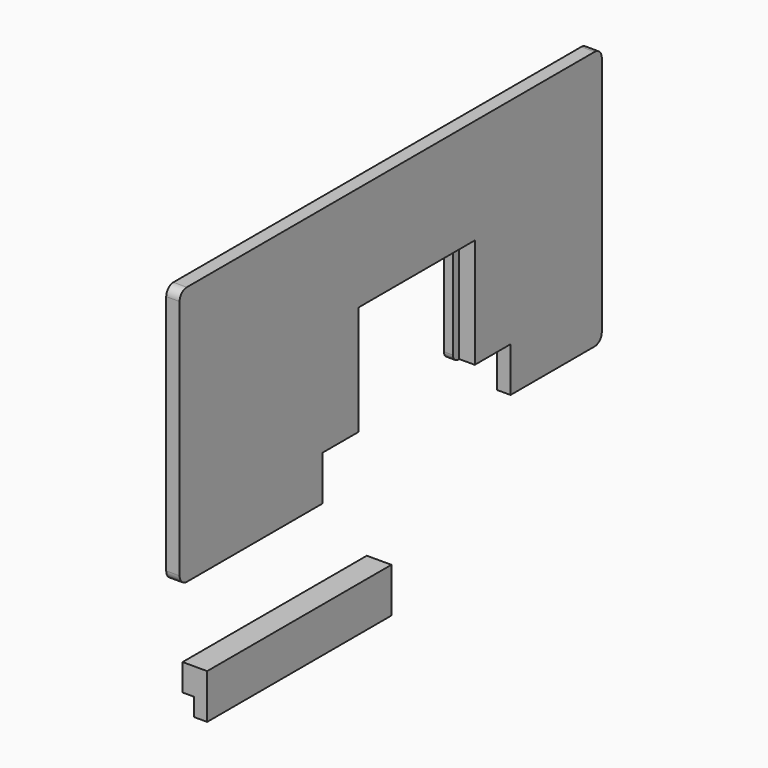
from build123d import *

# Parameters (mm, degrees)
F1_DEPTH = 3
F0_W     = 51.5
F0_H     = 10
F2_W     = 32.5
F2_H     = 24.5
F3_DEPTH = 3.5
F5_DEPTH = 2.5
F6_DEPTH = 0.5
F7_W     = 51.5
F7_H     = 6
F8_DEPTH = 2.5
F9_R     = 1.5


with BuildPart() as f1:
    # F0 (on Right) → F1 (new body)
    with BuildSketch(Plane.YZ):
        with BuildLine():
            Line((56.8031638018, 28.9837977201), (-57.1968361982, 28.9837977201))
            ThreePointArc((-57.1968361982, 28.9837977201), (-58.6110497606, 28.3980112824), (-59.1968361982, 26.9837977201))
            Line((-59.1968361982, 26.9837977201), (-59.1968361982, -27.0162022799))
            ThreePointArc((-59.1968361982, -27.0162022799), (-58.6110497606, -28.4304158423), (-57.1968361982, -29.0162022799))
            Line((-57.1968361982, -29.0162022799), (56.8031638018, -29.0162022799))
            ThreePointArc((56.8031638018, -29.0162022799), (58.2173773641, -28.4304158423), (58.8031638018, -27.0162022799))
            Line((58.8031638018, -27.0162022799), (58.8031638018, 26.9837977201))
            ThreePointArc((58.8031638018, 26.9837977201), (58.2173773641, 28.3980112824), (56.8031638018, 28.9837977201))
        make_face()
    extrude(amount=F1_DEPTH)

    # F2 (on face) → F3 (cut)
    with BuildSketch(Plane.YZ.offset(3)):
        with Locations((7.0531638018, -6.7662022799)):
            Rectangle(F2_W, F2_H)
        Polygon((33.3031638018, -19.0162022799), (23.3031638018, -19.0162022799), (-9.1968361982, -19.0162022799), (-19.1968361982, -19.0162022799), (-19.1968361982, -29.0162022799), (33.3031638018, -29.0162022799), align=None)
    extrude(amount=-F3_DEPTH, mode=Mode.SUBTRACT)

    # F4 (on face) → F5 (join)
    with BuildSketch(Plane(origin=(0, 0, 0), x_dir=(0, -1, 0), z_dir=(-1, 0, 0))):
        Polygon((-33.3031638018, 15.4837977201), (-33.3031638018, -19.0162022799), (-23.3031638018, -19.0162022799), (-23.3031638018, 5.4837977201), (9.1968361982, 5.4837977201), (9.1968361982, -19.0162022799), (19.1968361982, -19.0162022799), (19.1968361982, 15.4837977201), align=None)
        Polygon((-23.3031638018, 5.4837977201), (-23.3031638018, -19.0162022799), (-21.5531638018, -19.0162022799), (-21.5531638018, 2.9837977201), (7.4468361982, 2.9837977201), (7.4468361982, -19.0162022799), (9.1968361982, -19.0162022799), (9.1968361982, 5.4837977201), align=None)
    extrude(amount=F5_DEPTH)

    # F6 (cut): a face of the model
    f6_faces = [f1.faces().sort_by_distance(p)[0] for p in [
        (0, 22.8961625733, -6.7662022799),
    ]]
    extrude(f6_faces, amount=-F6_DEPTH, mode=Mode.SUBTRACT)

    # F9
    f9_edges = [f1.edges().sort_by_distance(p)[0] for p in [
        (-1.5, -7.446836, -19.016202),
        (-1.5, 21.553164, -19.016202),
    ]]
    fillet(f9_edges, radius=F9_R)


with BuildPart() as f1b:
    # F0 (on Right) → F1, piece 2 (new body)
    with BuildSketch(Plane.YZ):
        with Locations((-25.75, -53.901425451)):
            Rectangle(F0_W, F0_H)
    extrude(amount=F1_DEPTH)

    # F7 (on face) → F8 (join)
    with BuildSketch(Plane(origin=(0, 0, 0), x_dir=(0, -1, 0), z_dir=(-1, 0, 0))):
        with Locations((25.75, -51.901425451)):
            Rectangle(F7_W, F7_H)
    extrude(amount=F8_DEPTH)


solid = Compound([f1.part, f1b.part])
